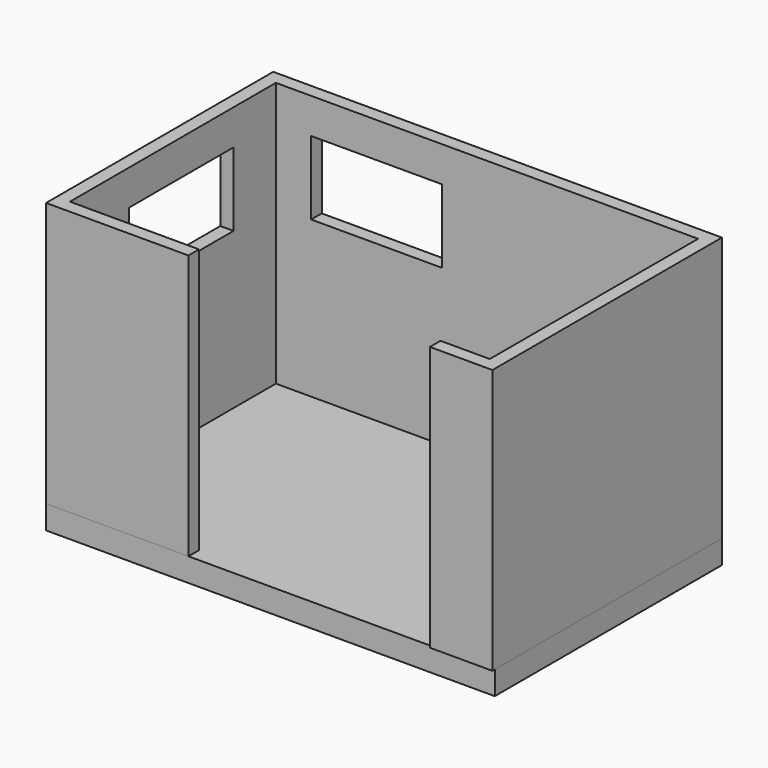
from build123d import *

# Parameters (mm, degrees)
F0_W     = 3873.5
F0_H     = 2451.1
F1_DEPTH = 203.2
F2_W     = 114.3
F2_H     = 114.3
F2_W_2   = 1114.425
F2_H_2   = 2222.5
F2_W_3   = 3644.9
F2_H_3   = 2247.9
F2_W_4   = 425.45
F3_DEPTH = 2286
F4_W     = 1130.3
F4_H     = 635
F5_DEPTH = 114.301
F6_W     = 1130.3
F6_H     = 635
F7_DEPTH = 114.301


with BuildPart() as f1:
    # F0 (on Top) → F1 (new body)
    with BuildSketch(Plane.XY):
        Rectangle(F0_W, F0_H)
    extrude(amount=-F1_DEPTH)


with BuildPart() as f3:
    # F2 (on Top) → F3 (new body)
    with BuildSketch(Plane.XY):
        with Locations((-1879.6, -1168.4)):
            Rectangle(F2_W, F2_H)
        with Locations((-1265.2375, -1168.4)):
            Rectangle(F2_W_2, F2_H)
        with Locations((-1879.6, 0)):
            Rectangle(F2_W, F2_H_2)
        with Locations((-1879.6, 1168.4)):
            Rectangle(F2_W, F2_H)
        with Locations((0, 1168.4)):
            Rectangle(F2_W_3, F2_H)
        with Locations((1879.6, 1168.4)):
            Rectangle(F2_W, F2_H)
        with Locations((1879.6, -12.7)):
            Rectangle(F2_W, F2_H_3)
        with Locations((1879.6, -1193.8)):
            Rectangle(F2_W, F2_H)
        with Locations((1609.725, -1193.8)):
            Rectangle(F2_W_4, F2_H)
    extrude(amount=F3_DEPTH)

    # F4 (on face) → F5 (cut, through all)
    with BuildSketch(Plane.XZ.offset(-1111.25)):
        with Locations((-952.5, 1663.7)):
            Rectangle(F4_W, F4_H)
    extrude(amount=-F5_DEPTH, mode=Mode.SUBTRACT)

    # F6 (on face) → F7 (cut, through all)
    with BuildSketch(Plane.YZ.offset(-1822.45)):
        with Locations((88.9, 1663.7)):
            Rectangle(F6_W, F6_H)
    extrude(amount=-F7_DEPTH, mode=Mode.SUBTRACT)


solid = Compound([f1.part, f3.part])
